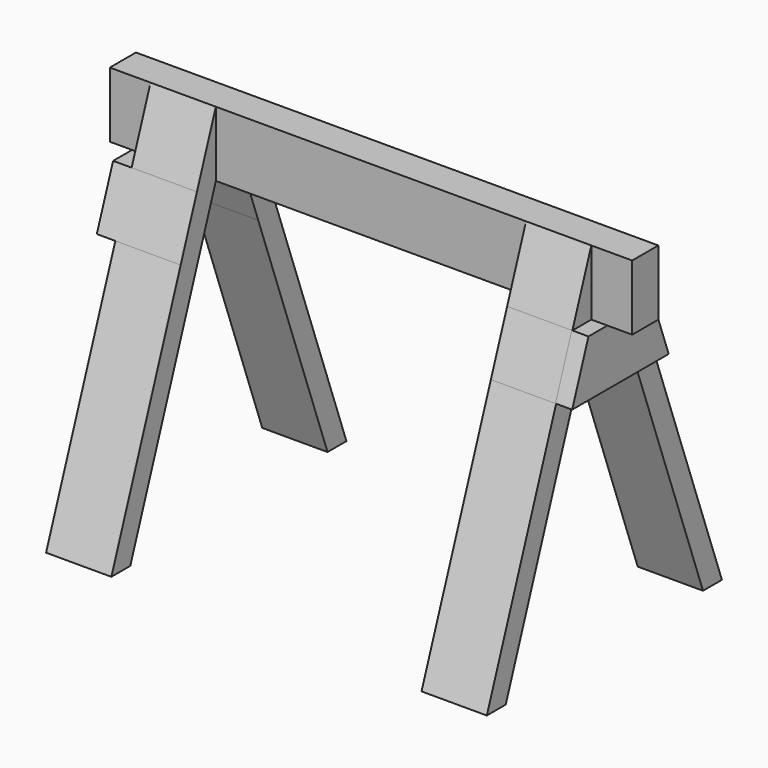
from build123d import *

# Parameters (mm, degrees)
F0_W     = 6.35
F0_H     = 12.7
F1_DEPTH = 101.6
F2_START = -7.9502
F2_DEPTH = 12.7
F3_START = -80.9752
F3_DEPTH = 12.7
F4_START = -4.826
F4_DEPTH = 3.2512
F5_START = -90.678
F5_DEPTH = 6.604


with BuildPart() as f1:
    # F0 (on Right) → F1 (new body)
    with BuildSketch(Plane.YZ):
        with Locations((-3.175, 24.2265348894)):
            Rectangle(F0_W, F0_H)
    extrude(amount=-F1_DEPTH)

    # F0 (on Right) → F3 (join)
    with BuildSketch(Plane.YZ.offset(F3_START)):
        Polygon((-6.35, 17.8765348894), (-6.35, 30.5765348894), (-10.9474, 17.8765348894), align=None)
        Polygon((4.5974, 17.8765348894), (0, 30.5765348894), (0, 17.8765348894), align=None)
        Polygon((4.5974, 17.8765348894), (0, 17.8765348894), (3.9569859437, 6.9456344924), (8.5543859437, 6.9456344924), align=None)
        Polygon((8.5543859437, 6.9456344924), (3.9569859437, 6.9456344924), (20.8026, -39.589210967), (25.4, -39.589210967), align=None)
        Polygon((-10.3069859437, 6.9456344924), (-6.35, 17.8765348894), (-10.9474, 17.8765348894), (-14.9043859437, 6.9456344924), align=None)
        Polygon((-27.1526, -39.589210967), (-10.3069859437, 6.9456344924), (-14.9043859437, 6.9456344924), (-31.75, -39.589210967), align=None)
    extrude(amount=-F3_DEPTH)

    # F0 (on Right) → F5 (join)
    with BuildSketch(Plane.YZ.offset(F5_START)):
        Polygon((-10.3069859437, 6.9456344924), (-6.35, 17.8765348894), (-10.9474, 17.8765348894), (-14.9043859437, 6.9456344924), align=None)
        Polygon((0, 17.8765348894), (-6.35, 17.8765348894), (-10.3069859437, 6.9456344924), (3.9569859437, 6.9456344924), align=None)
        Polygon((4.5974, 17.8765348894), (0, 17.8765348894), (3.9569859437, 6.9456344924), (8.5543859437, 6.9456344924), align=None)
    extrude(amount=-F5_DEPTH)


with BuildPart() as f2:
    # F0 (on Right) → F2 (new body)
    with BuildSketch(Plane.YZ.offset(F2_START)):
        Polygon((-10.3069859437, 6.9456344924), (-6.35, 17.8765348894), (-10.9474, 17.8765348894), (-14.9043859437, 6.9456344924), align=None)
        Polygon((-6.35, 17.8765348894), (-6.35, 30.5765348894), (-10.9474, 17.8765348894), align=None)
        Polygon((-27.1526, -39.589210967), (-10.3069859437, 6.9456344924), (-14.9043859437, 6.9456344924), (-31.75, -39.589210967), align=None)
    extrude(amount=-F2_DEPTH)


with BuildPart() as f2b:
    # F0 (on Right) → F2, piece 2 (new body)
    with BuildSketch(Plane.YZ.offset(F2_START)):
        Polygon((4.5974, 17.8765348894), (0, 30.5765348894), (0, 17.8765348894), align=None)
        Polygon((4.5974, 17.8765348894), (0, 17.8765348894), (3.9569859437, 6.9456344924), (8.5543859437, 6.9456344924), align=None)
        Polygon((8.5543859437, 6.9456344924), (3.9569859437, 6.9456344924), (20.8026, -39.589210967), (25.4, -39.589210967), align=None)
    extrude(amount=-F2_DEPTH)


with BuildPart() as f4:
    # F0 (on Right) → F4 (new body)
    with BuildSketch(Plane.YZ.offset(F4_START)):
        Polygon((0, 17.8765348894), (-6.35, 17.8765348894), (-10.3069859437, 6.9456344924), (3.9569859437, 6.9456344924), align=None)
        Polygon((-10.3069859437, 6.9456344924), (-6.35, 17.8765348894), (-10.9474, 17.8765348894), (-14.9043859437, 6.9456344924), align=None)
        Polygon((4.5974, 17.8765348894), (0, 17.8765348894), (3.9569859437, 6.9456344924), (8.5543859437, 6.9456344924), align=None)
    extrude(amount=-F4_DEPTH)


solid = Compound([f1.part, f2.part, f2b.part, f4.part])
